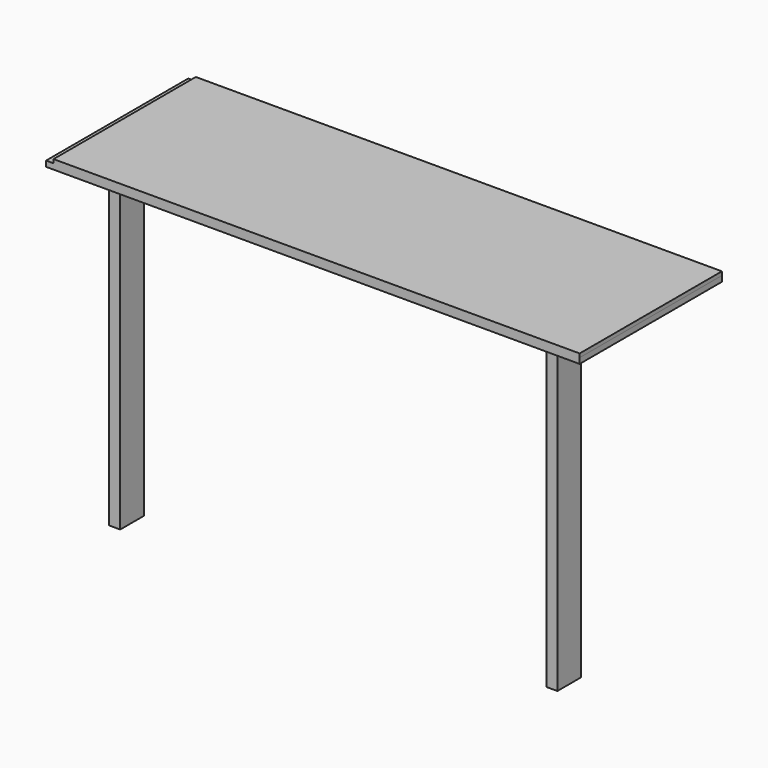
from build123d import *

# Parameters (mm, degrees)
BOX011_W     = 38.1
BOX011_H     = 546.1
BOX011_DEPTH = 69.85
BOX010_W     = 38.1
BOX010_H     = 101.6
BOX010_DEPTH = 1054.1
BOX013_W     = 38.1
BOX013_H     = 546.1
BOX013_DEPTH = 69.85
BOX012_W     = 38.1
BOX012_H     = 101.6
BOX012_DEPTH = 1054.1
BOX014_W     = 1460.5
BOX014_H     = 101.6
BOX014_DEPTH = 38.1
BOX009_W     = 1803.4
BOX009_H     = 609.6
BOX009_DEPTH = 12.7
BOX008_W     = 1828.8
BOX008_H     = 609.6
BOX008_DEPTH = 19.05


with BuildPart() as cube005:
    # Box011 → Box011 (new body)
    with BuildSketch(Plane(origin=(308.102, -546.1, 984.25), x_dir=(1, 0, 0), z_dir=(0, 0, 1))):
        with Locations((19.05, 273.05)):
            Rectangle(BOX011_W, BOX011_H)
    extrude(amount=BOX011_DEPTH)


with BuildPart() as tableleg:
    # Box010 → Box010 (new body)
    with BuildSketch(Plane(origin=(308.102, -546.1, 0), x_dir=(1, 0, 0), z_dir=(0, 0, 1))):
        with Locations((19.05, 50.8)):
            Rectangle(BOX010_W, BOX010_H)
    extrude(amount=BOX010_DEPTH)

    # Fusion002: union Cube005
    add(cube005.part)


with BuildPart() as cube007:
    # Box013 → Box013 (new body)
    with BuildSketch(Plane(origin=(1806.702, -546.1, 984.25), x_dir=(1, 0, 0), z_dir=(0, 0, 1))):
        with Locations((19.05, 273.05)):
            Rectangle(BOX013_W, BOX013_H)
    extrude(amount=BOX013_DEPTH)


with BuildPart() as tableleg2:
    # Box012 → Box012 (new body)
    with BuildSketch(Plane(origin=(1806.702, -546.1, 0), x_dir=(1, 0, 0), z_dir=(0, 0, 1))):
        with Locations((19.05, 50.8)):
            Rectangle(BOX012_W, BOX012_H)
    extrude(amount=BOX012_DEPTH)

    # Fusion003: union Cube007
    add(cube007.part)


with BuildPart() as cube008:
    # Box014 → Box014 (new body)
    with BuildSketch(Plane(origin=(346.202, -546.1, 1016), x_dir=(1, 0, 0), z_dir=(0, 0, 1))):
        with Locations((730.25, 50.8)):
            Rectangle(BOX014_W, BOX014_H)
    extrude(amount=BOX014_DEPTH)


with BuildPart() as cube003:
    # Box009 → Box009 (new body)
    with BuildSketch(Plane(origin=(168.402, -609.6, 1073.15), x_dir=(1, 0, 0), z_dir=(0, 0, 1))):
        with Locations((901.7, 304.8)):
            Rectangle(BOX009_W, BOX009_H)
    extrude(amount=BOX009_DEPTH)


with BuildPart() as table:
    # Box008 → Box008 (new body)
    with BuildSketch(Plane(origin=(142.875, -609.6, 1054.1), x_dir=(1, 0, 0), z_dir=(0, 0, 1))):
        with Locations((914.4, 304.8)):
            Rectangle(BOX008_W, BOX008_H)
    extrude(amount=BOX008_DEPTH)

    # Fusion: union Cube003
    add(cube003.part)

    # Fusion004: union TableLeg, TableLeg2, Cube008
    add(tableleg.part)
    add(tableleg2.part)
    add(cube008.part)


solid = table.part
